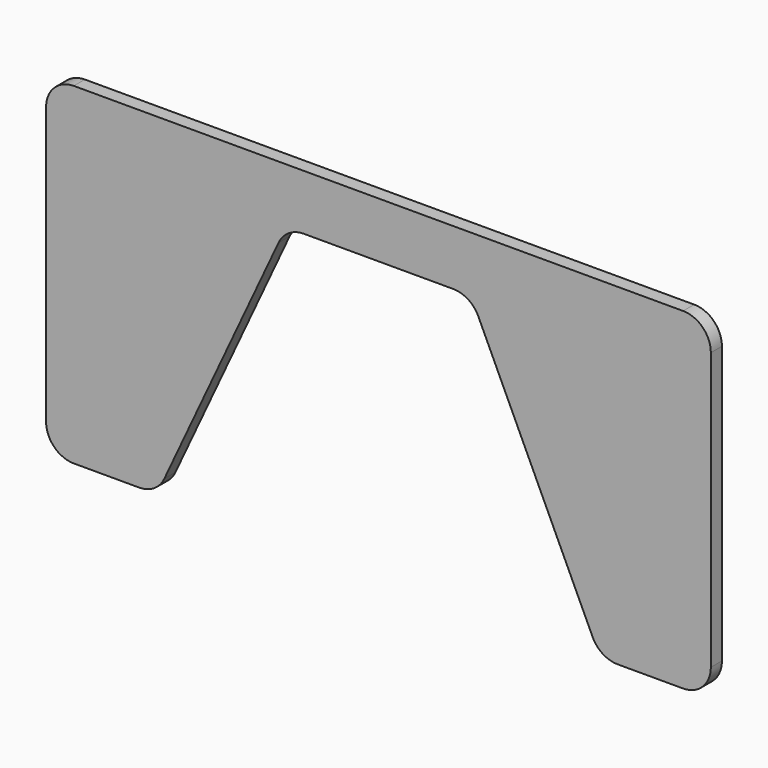
from build123d import *

# Parameters (mm, degrees)
F1_DEPTH = 6.35
F3_R     = 12.7


with BuildPart() as f1:
    # F0 (on Front) → F1 (new body)
    with BuildSketch(Plane.XZ):
        Polygon((76.2, 76.2), (-76.2, 76.2), (-76.2, -76.2), (-25.4, -76.2), (33.8210725857, 50.8), (76.2, 50.8), align=None)
    extrude(amount=F1_DEPTH)

    # F2: F1 across face


with BuildPart() as f1_1:
    add(f1.part)
    add(f1.part.mirror(Plane(origin=(76.2, -3.175, 63.5), x_dir=(0, 1, 0), z_dir=(1, 0, 0))))

    # F3
    f3_edges = [f1_1.edges().sort_by_distance(p)[0] for p in [
        (33.821073, -3.175, 50.8),
        (118.578927, -3.175, 50.8),
        (177.8, -3.175, -76.2),
        (-25.4, -3.175, -76.2),
        (-76.2, -3.175, -76.2),
        (228.6, -3.175, -76.2),
        (228.6, -3.175, 76.2),
        (-76.2, -3.175, 76.2),
    ]]
    fillet(f3_edges, radius=F3_R)


solid = f1_1.part
